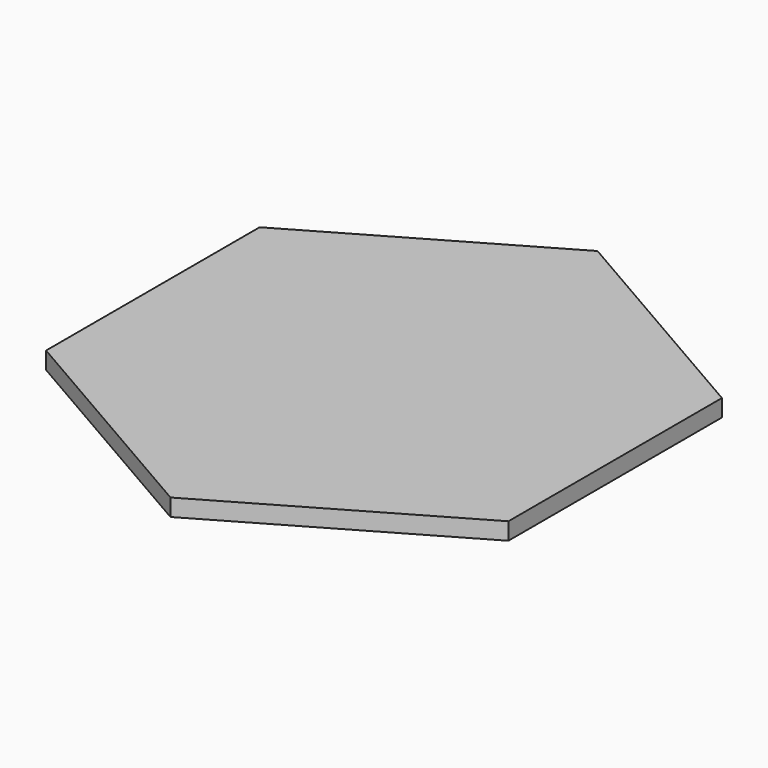
from build123d import *

# Parameters (mm, degrees)
F0_R     = 22.365
F1_DEPTH = 2


with BuildPart() as f1:
    # F0 (on Top) → F1 (new body)
    with BuildSketch(Plane.XY):
        Polygon((18.904521, -13.536722), (18.904521, 17.582458), (-8.045479, 33.142047), (-34.995479, 17.582458), (-34.995479, -13.536722), (-8.045479, -29.096312), align=None)
        with Locations((-8.045479, 2.022868)):
            Circle(F0_R, mode=Mode.SUBTRACT)
        with Locations((-8.045479, 2.022868)):
            Circle(F0_R)
    extrude(amount=F1_DEPTH)


solid = f1.part
